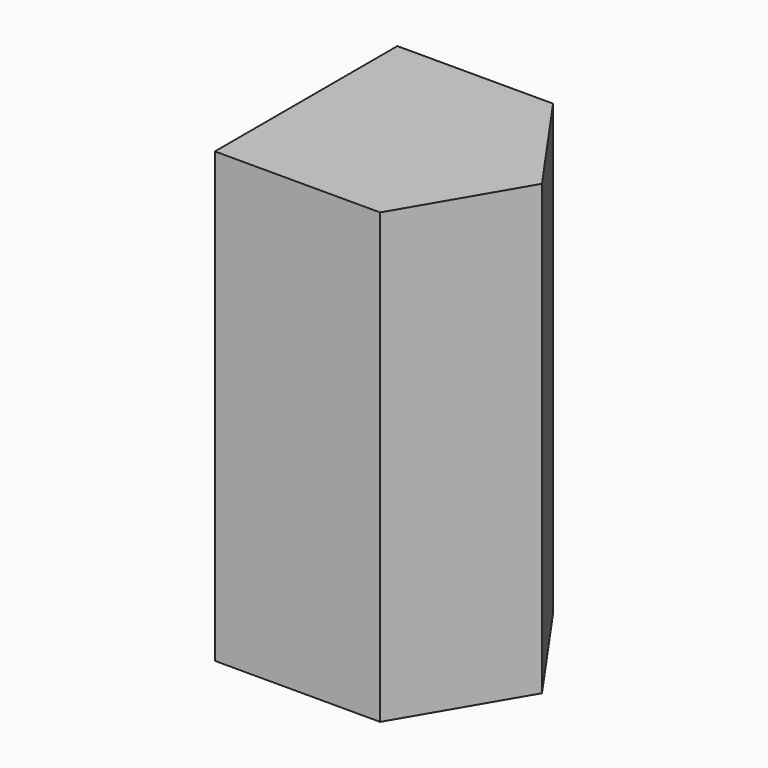
from build123d import *

# Parameters (mm, degrees)
F1_DEPTH = 25
F2_DEPTH = 25


with BuildPart() as f1:
    # F0 (on Top) → F1 (new body)
    with BuildSketch(Plane.XY):
        Polygon((40.925201, 52.086614), (40.925201, 39.375), (50.135638, 39.375), (53.946856, 45.885831), (49.606301, 52.086614), align=None)
    extrude(amount=F1_DEPTH)

    # F0 (on Top) → F2 (join)
    with BuildSketch(Plane.XY):
        Polygon((40.925201, 52.086614), (40.925201, 39.375), (50.135638, 39.375), (53.946856, 45.885831), (49.606301, 52.086614), align=None)
    extrude(amount=F2_DEPTH)


solid = f1.part
